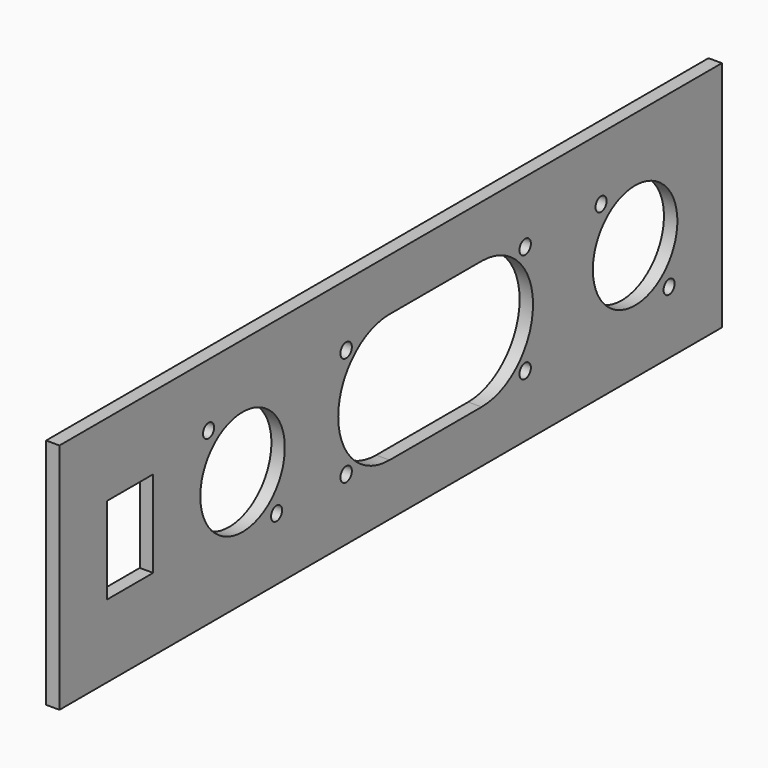
from build123d import *

# Parameters (mm, degrees)
SKETCH_W        = 185
SKETCH_H        = 52
PAD_DEPTH       = 3
SHAPEBINDER_R   = 11.8
SHAPEBINDER_R_2 = 1.55
SHAPEBINDER_W   = 12.9
SHAPEBINDER_H   = 19.4
SHAPEBINDER_R_3 = 1.6
POCKET_DEPTH    = 5


with BuildPart() as part:
    # Sketch → Pad (new body)
    with BuildSketch(Plane.YZ):
        with Locations((0, 23)):
            Rectangle(SKETCH_W, SKETCH_H)
    extrude(amount=PAD_DEPTH)

    # ShapeBinder → Pocket (cut)
    with BuildSketch(Plane(origin=(0, 0.410224, 23), x_dir=(0, -1, 0), z_dir=(1, 0, 0))):
        with Locations((-67.839494, 0)):
            Circle(SHAPEBINDER_R)
        with Locations((-58.339494, -12)):
            Circle(SHAPEBINDER_R_2)
        with Locations((-77.339494, 12)):
            Circle(SHAPEBINDER_R_2)
        with BuildLine():
            ThreePointArc((-24.986195, 14.35), (-39.336195, 0), (-24.986195, -14.35))
            Line((-24.986195, -14.35), (0.713805, -14.35))
            ThreePointArc((0.713805, -14.35), (15.063805, 0), (0.713805, 14.35))
            Line((0.713805, 14.35), (-24.986195, 14.35))
        make_face()
        with Locations((41.785392, 0)):
            Circle(SHAPEBINDER_R)
        with Locations((32.285392, 12)):
            Circle(SHAPEBINDER_R_2)
        with Locations((51.285392, -12)):
            Circle(SHAPEBINDER_R_2)
        with Locations((73.189494, 0)):
            Rectangle(SHAPEBINDER_W, SHAPEBINDER_H)
        with Locations((12.863805, -12.2)):
            Circle(SHAPEBINDER_R_3)
        with Locations((12.863805, 12.2)):
            Circle(SHAPEBINDER_R_3)
        with Locations((-37.136195, 12.2)):
            Circle(SHAPEBINDER_R_3)
        with Locations((-37.136195, -12.2)):
            Circle(SHAPEBINDER_R_3)
    extrude(amount=POCKET_DEPTH, mode=Mode.SUBTRACT)


solid = part.part
